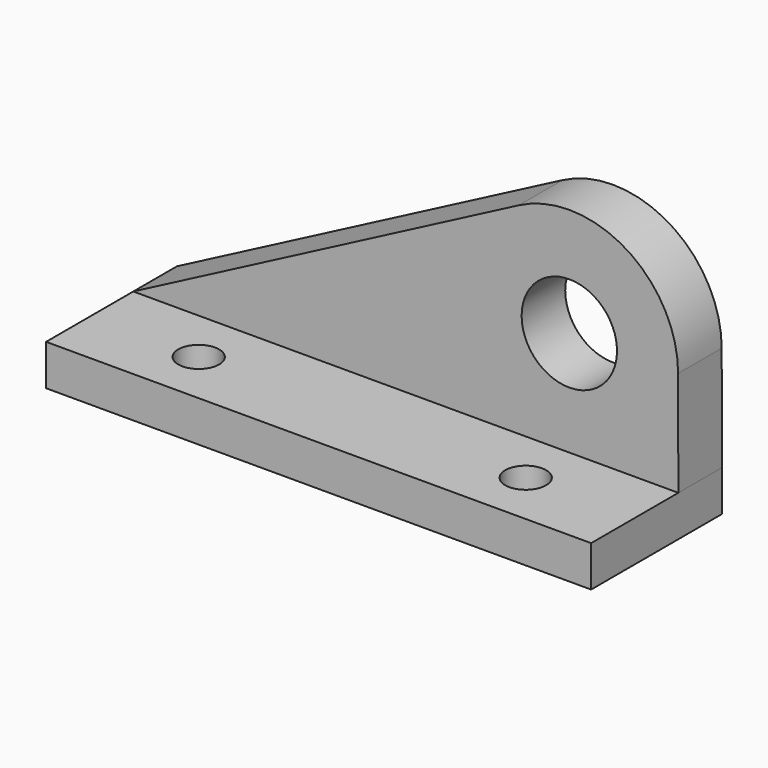
from build123d import *

# Parameters (mm, degrees)
F0_W     = 127
F0_H     = 9.525
F1_DEPTH = 38.1
F2_DEPTH = 12.7
F3_D     = 22.225
F5_D     = 9.525


with BuildPart() as f1:
    # F0 (on Front) → F1 (new body)
    with BuildSketch(Plane.XZ):
        with Locations((63.5, 4.7625)):
            Rectangle(F0_W, F0_H)
    extrude(amount=F1_DEPTH)

    # F0 (on Front) → F2 (join)
    with BuildSketch(Plane.XZ):
        with BuildLine():
            Line((89.8677585571, 56.4390714728), (0, 9.525))
            Line((0, 9.525), (127, 9.525))
            Line((127, 9.525), (126.9520602505, 34.0146270286))
            ThreePointArc((126.9520602505, 34.0146270286), (114.7182618225, 55.6592523753), (89.8677585571, 56.4390714728))
        make_face()
    extrude(amount=F2_DEPTH)

    # F3 (through all)
    with Locations(Plane(origin=(0, 0, 0), x_dir=(1, 0, 0), z_dir=(0, 1, 0))):
        with Locations((101.6, -33.9649990201)):
            Hole(F3_D / 2)

    # F5 (through all)
    with Locations(Plane.XY.offset(9.525)):
        with Locations((25.4, -25.4), (101.6, -25.4)):
            Hole(F5_D / 2)


solid = f1.part
